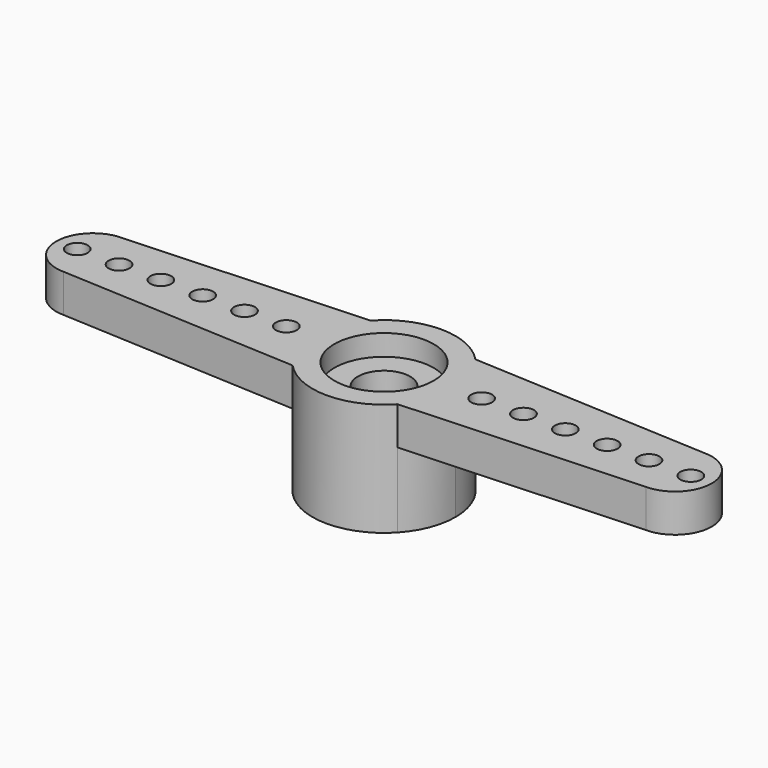
from build123d import *

# Parameters (mm, degrees)
F1_DEPTH = 0.91
F3_DEPTH = 5.4
F4_R     = 2.375
F5_DEPTH = 1
F6_R     = 2.375
F7_DEPTH = 3
F9_D     = 2.5
F11_D    = 1


with BuildPart() as f1:
    # F0 (on Top) → F1 (new body, symmetric)
    with BuildSketch(Plane.XY):
        with BuildLine():
            Line((-13.92, -1.75), (-13.92, 1.75))
            ThreePointArc((-13.92, 1.75), (-15.67, 0), (-13.92, -1.75))
        make_face()
        with BuildLine():
            ThreePointArc((-13.92, -1.75), (-12.6825631329, -1.2374368671), (-12.17, 0))
            ThreePointArc((-12.17, 0), (-12.6825631329, 1.2374368671), (-13.92, 1.75))
            Line((-13.92, 1.75), (-13.92, -1.75))
        make_face()
        with BuildLine():
            ThreePointArc((-13.92, 1.75), (-12.6825631329, 1.2374368671), (-12.17, 0))
            ThreePointArc((-12.17, 0), (-12.6825631329, -1.2374368671), (-13.92, -1.75))
            Line((-13.92, -1.75), (0, -2.45))
            Line((0, -2.45), (0, 2.45))
            Line((0, 2.45), (-13.92, 1.75))
        make_face()
        with BuildLine():
            Line((13.92, 1.75), (0, 2.45))
            Line((0, 2.45), (0, -2.45))
            Line((0, -2.45), (13.92, -1.75))
            ThreePointArc((13.92, -1.75), (12.17, 0), (13.92, 1.75))
        make_face()
        with BuildLine():
            Line((13.92, -1.75), (13.92, 1.75))
            ThreePointArc((13.92, 1.75), (12.17, 0), (13.92, -1.75))
        make_face()
        with BuildLine():
            ThreePointArc((15.67, 0), (15.1574368671, 1.2374368671), (13.92, 1.75))
            Line((13.92, 1.75), (13.92, -1.75))
            ThreePointArc((13.92, -1.75), (15.1574368671, -1.2374368671), (15.67, 0))
        make_face()
    extrude(amount=F1_DEPTH, both=True)

    # F2 (on face) → F3 (join)
    with BuildSketch(Plane.XY.offset(0.91)):
        with BuildLine():
            Line((0, 2.45), (2.5092377818, 2.3238170656))
            ThreePointArc((2.5092377818, 2.3238170656), (0, 3.42), (-2.5092377818, 2.3238170656))
            Line((-2.5092377818, 2.3238170656), (0, 2.45))
        make_face()
        with BuildLine():
            ThreePointArc((2.5092377818, -2.3238170656), (3.1841791104, -1.2479596921), (3.42, 0))
            ThreePointArc((3.42, 0), (3.1841791104, 1.2479596921), (2.5092377818, 2.3238170656))
            Line((2.5092377818, 2.3238170656), (0, 2.45))
            Line((0, 2.45), (-2.5092377818, 2.3238170656))
            ThreePointArc((-2.5092377818, 2.3238170656), (-3.42, 0), (-2.5092377818, -2.3238170656))
            Line((-2.5092377818, -2.3238170656), (0, -2.45))
            Line((0, -2.45), (2.5092377818, -2.3238170656))
        make_face()
        with BuildLine():
            ThreePointArc((-2.5092377818, -2.3238170656), (0, -3.42), (2.5092377818, -2.3238170656))
            Line((2.5092377818, -2.3238170656), (0, -2.45))
            Line((0, -2.45), (-2.5092377818, -2.3238170656))
        make_face()
    extrude(amount=-F3_DEPTH)

    # F4 (on face) → F5 (cut)
    with BuildSketch(Plane.XY.offset(0.91)):
        Circle(F4_R)
    extrude(amount=-F5_DEPTH, mode=Mode.SUBTRACT)

    # F6 (on face) → F7 (cut)
    with BuildSketch(Plane(origin=(0, 0, -4.49), x_dir=(1, 0, 0), z_dir=(0, 0, -1))):
        Circle(F6_R)
    extrude(amount=-F7_DEPTH, mode=Mode.SUBTRACT)

    # F9 (through all)
    with Locations(Plane.XY.offset(-0.09)):
        with Locations((0, 0)):
            Hole(F9_D / 2)

    # F11 (through all)
    with Locations(Plane.XY.offset(0.91)):
        with Locations((-14.67, 0), (-12.67, 0), (-10.67, 0), (-8.67, 0), (-6.67, 0), (-4.67, 0), (4.67, 0), (6.67, 0), (8.67, 0), (10.67, 0), (12.67, 0), (14.67, 0)):
            Hole(F11_D / 2)


solid = f1.part
